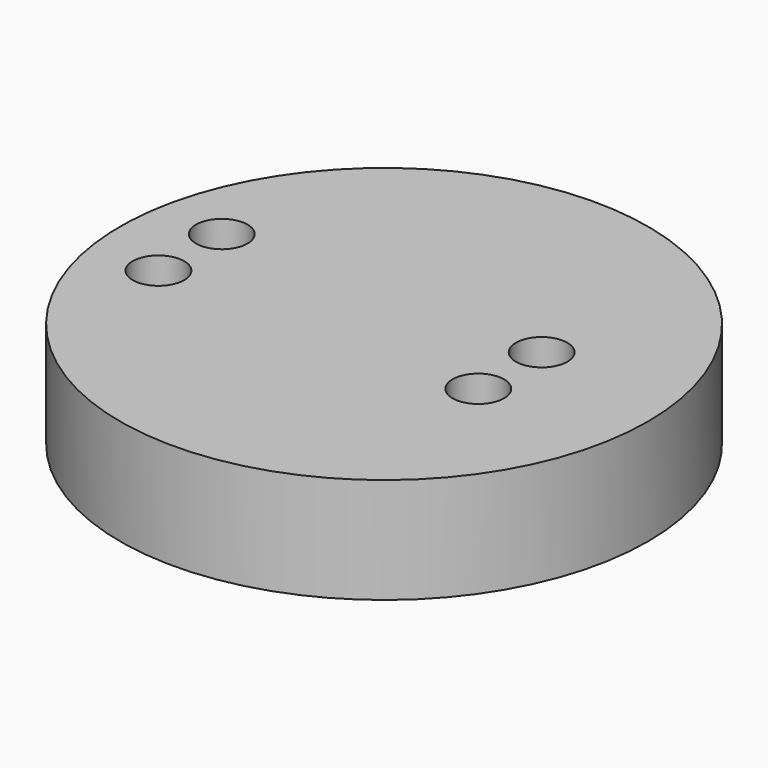
from build123d import *

# Parameters (mm, degrees)
F1_R     = 10
F2_DEPTH = 4
F4_R     = 0.825
F6_R     = 0.975
F7_DEPTH = 4


with BuildPart() as f2:
    # F1 (on Top) → F2 (new body)
    with BuildSketch(Plane.XY):
        Circle(F1_R)
    extrude(amount=F2_DEPTH)

    # F5: sweep along a path in F3
    with BuildLine(Plane(origin=(0, 0, 0), x_dir=(1, 0, 0), z_dir=(0, 0, -1))) as f5_path:
        CenterArc((0, 0), 7.5, 0, 360)
    # F4 (on Front) → F5 (sweep, cut)
    with BuildSketch(Plane.XZ):
        with Locations((5, 0)):
            Circle(F4_R)
        with Locations((7.5, 0)):
            Circle(F4_R)
    sweep(path=f5_path.line, mode=Mode.SUBTRACT)

    # F6 (on face) → F7 (cut, through all)
    with BuildSketch(Plane(origin=(0, 0, 0), x_dir=(1, 0, 0), z_dir=(0, 0, -1))):
        with Locations((-7.3484692283, 1.5)):
            Circle(F6_R)
        with Locations((-7.3484692283, -1.5)):
            Circle(F6_R)
        with Locations((4.7696960071, 1.5)):
            Circle(F6_R)
        with Locations((4.7696960071, -1.5)):
            Circle(F6_R)
    extrude(amount=-F7_DEPTH, mode=Mode.SUBTRACT)


solid = f2.part
